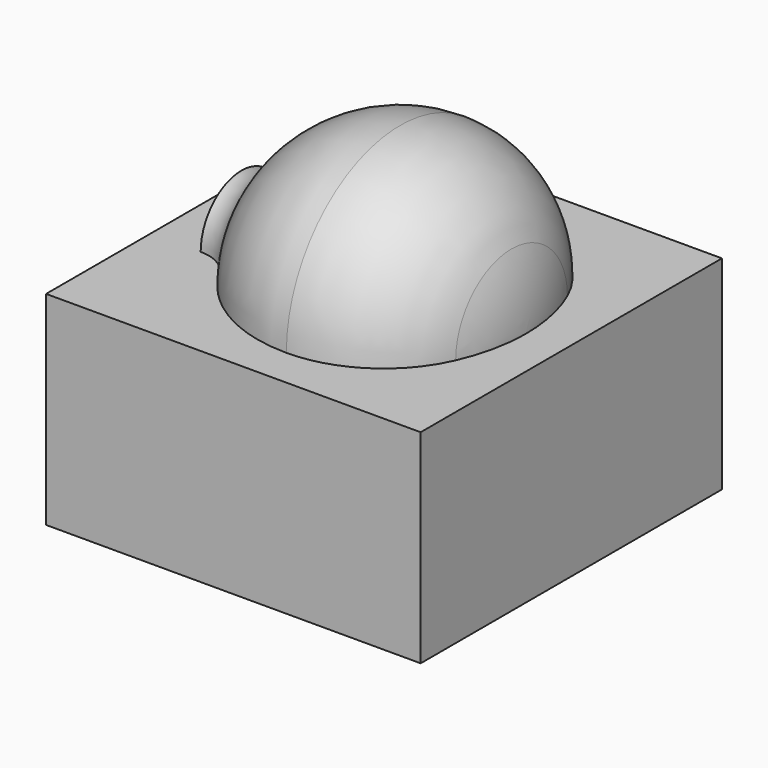
from build123d import *

# Parameters (mm, degrees)
F2_W     = 116.914073
F2_H     = 117.541354
F3_DEPTH = 63.5


with BuildPart() as f1:
    # F0 (on Top) → F1 (revolve)
    with BuildSketch(Plane.XY):
        with BuildLine():
            Line((0, -15.875), (88.9, -15.875))
            ThreePointArc((88.9, -15.875), (87.74252, -4.741907), (84.319592, 5.914972))
            ThreePointArc((84.319592, 5.914972), (70.328467, 22.408817), (49.597412, 28.575))
            ThreePointArc((49.597412, 28.575), (27.208352, 22.586774), (10.798087, 6.221198))
            ThreePointArc((10.798087, 6.221198), (6.231011, 1.666559), (0, 0))
            Line((0, 0), (0, -15.875))
        make_face()
    revolve(axis=Axis((44.45, -15.875, 0), (-1, 0, 0)))

    # F2 (on Top) → F3 (join)
    with BuildSketch(Plane.XY):
        with Locations((42.886259, -13.831975)):
            Rectangle(F2_W, F2_H)
    extrude(amount=-F3_DEPTH)


solid = f1.part
